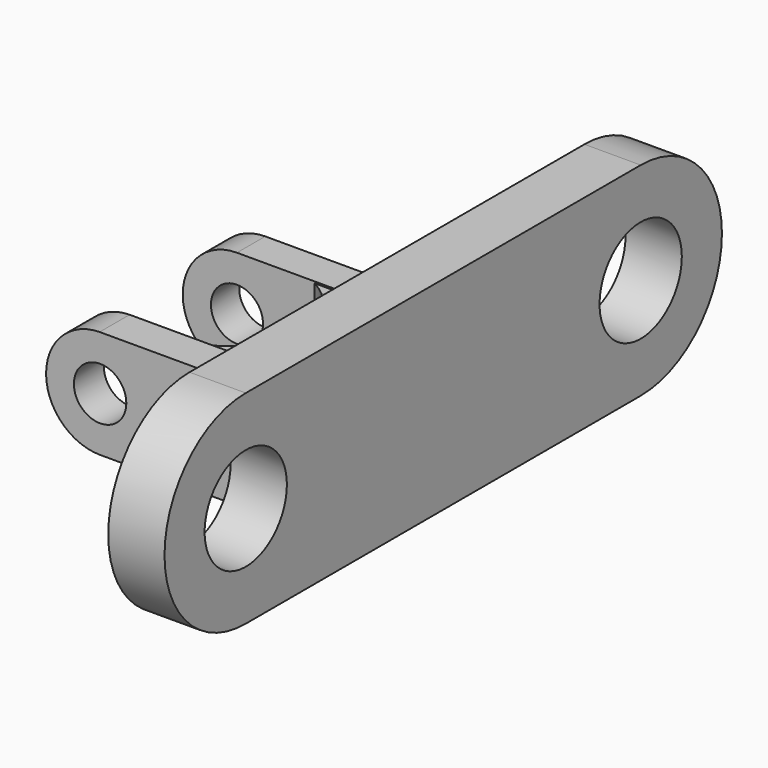
from build123d import *

# Parameters (mm, degrees)
F0_R     = 8.119987
F1_DEPTH = 8.89
F4_R     = 4.141817
F5_DEPTH = 5.9182
F6_R     = 4.114136
F7_DEPTH = 5.588
F8_DEPTH = 8.382
F9_DEPTH = 8.6106


with BuildPart() as f1:
    # F0 (on Right) → F1 (new body)
    with BuildSketch(Plane.YZ):
        with BuildLine():
            Line((-38.991049, -16.499758), (0, -16.499758))
            Line((0, -16.499758), (38.991049, -16.499758))
            ThreePointArc((38.991049, -16.499758), (55.02992, -0.460887), (38.991049, 15.577984))
            Line((38.991049, 15.577984), (-38.991049, 15.577984))
            ThreePointArc((-38.991049, 15.577984), (-55.02992, -0.460887), (-38.991049, -16.499758))
        make_face()
        with Locations((-38.991049, -0.460887)):
            Circle(F0_R, mode=Mode.SUBTRACT)
        with Locations((38.991049, -0.460887)):
            Circle(F0_R, mode=Mode.SUBTRACT)
    extrude(amount=F1_DEPTH)

    # F4 (on offset) → F5 (join)
    with BuildSketch(Plane.XZ.offset(21.082)):
        with BuildLine():
            Line((0, -8.503367), (0, 8.564635))
            Line((0, 8.564635), (-23.786137, 8.564635))
            ThreePointArc((-23.786137, 8.564635), (-32.24461, -0.007005), (-23.710525, -8.503367))
            Line((-23.710525, -8.503367), (0, -8.503367))
        make_face()
        with Locations((-23.710525, 0.030801)):
            Circle(F4_R, mode=Mode.SUBTRACT)
    extrude(amount=F5_DEPTH)

    # F6 (on Front) → F7 (join)
    with BuildSketch(Plane.XZ):
        with BuildLine():
            Line((0, -8.482178), (0, 8.645641))
            Line((0, 8.645641), (-23.690745, 8.645641))
            ThreePointArc((-23.690745, 8.645641), (-32.255356, -0.029298), (-23.47151, -8.482178))
            Line((-23.47151, -8.482178), (0, -8.482178))
        make_face()
        with Locations((-23.690745, 0.080328)):
            Circle(F6_R, mode=Mode.SUBTRACT)
    extrude(amount=-F7_DEPTH)

    # F3 (on Top) → F8 (join)
    with BuildSketch(Plane.XY):
        with BuildLine():
            ThreePointArc((-11.469169, 0), (-4.959083, -10.488037), (-11.284814, -21.088285))
            Line((-11.284814, -21.088285), (0, -21.167291))
            Line((0, -21.167291), (0, 0))
            Line((0, 0), (-11.469169, 0))
        make_face()
    extrude(amount=F8_DEPTH)

    # F8_face (on face) → F9 (join)
    with BuildSketch(Plane(origin=(-3.631356, -10.506783, 0), x_dir=(1, 0, 0), z_dir=(0, 0, -1))):
        with BuildLine():
            Line((-7.837812, -10.506783), (3.631356, -10.506783))
            Line((3.631356, -10.506783), (3.631356, 10.575217))
            Line((3.631356, 10.575217), (-7.641576, 10.575217))
            ThreePointArc((-7.641576, 10.575217), (-1.327787, -0.025466), (-7.837812, -10.506783))
        make_face()
    extrude(amount=F9_DEPTH)


solid = f1.part
